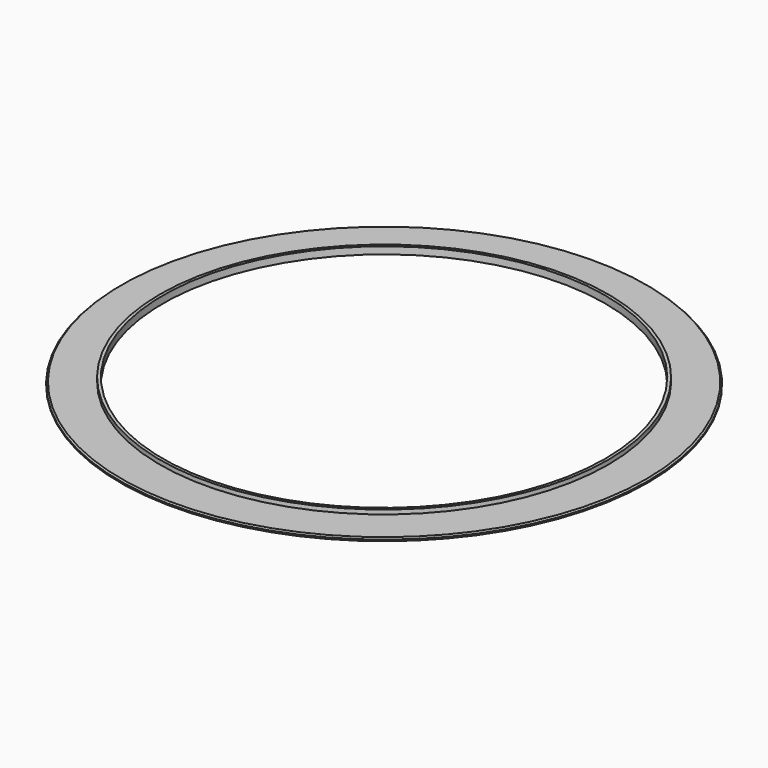
from build123d import *

# Parameters (mm, degrees)
F0_R     = 37
F0_R_2   = 31.42
F0_R_3   = 31
F1_DEPTH = 0.4
F2_DEPTH = 1
F3_SIZE  = 0.2


with BuildPart() as f1:
    # F0 (on Top) → F1 (new body)
    with BuildSketch(Plane.XY):
        Circle(F0_R)
        Circle(F0_R_2, mode=Mode.SUBTRACT)
        Circle(F0_R_2)
        Circle(F0_R_3, mode=Mode.SUBTRACT)
    extrude(amount=F1_DEPTH)

    # F0 (on Top) → F2 (join)
    with BuildSketch(Plane.XY):
        Circle(F0_R_2)
        Circle(F0_R_3, mode=Mode.SUBTRACT)
    extrude(amount=F2_DEPTH)

    # F3
    f3_edges = [f1.edges().sort_by_distance(p)[0] for p in [
        (-37, 0, 0.4),
    ]]
    chamfer(f3_edges, length=F3_SIZE)


solid = f1.part
